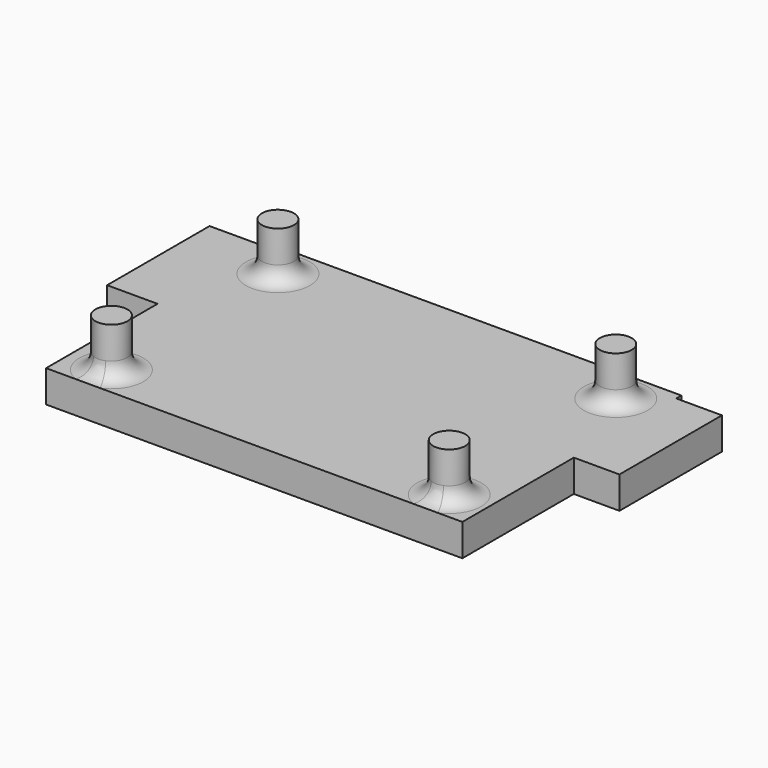
from build123d import *

# Parameters (mm, degrees)
CYLINDER015_R     = 1
CYLINDER015_DEPTH = 3
CYLINDER014_R     = 1
CYLINDER014_DEPTH = 3
CYLINDER013_R     = 1
CYLINDER013_DEPTH = 3
CYLINDER016_R     = 1
CYLINDER016_DEPTH = 3
BOX004_W          = 26
BOX004_H          = 17.1
BOX004_DEPTH      = 2
BOX005_W          = 32
BOX005_H          = 8
BOX005_DEPTH      = 2
FILLET003_R       = 1


with BuildPart() as cilindro015:
    # Cylinder015 → Cylinder015 (new body)
    with BuildSketch(Plane(origin=(89.75, 253.65, 4), x_dir=(1, 0, 0), z_dir=(0, 0, 1))):
        Circle(CYLINDER015_R)
    extrude(amount=CYLINDER015_DEPTH)


with BuildPart() as cilindro014:
    # Cylinder014 → Cylinder014 (new body)
    with BuildSketch(Plane(origin=(89.75, 240.65, 4), x_dir=(1, 0, 0), z_dir=(0, 0, 1))):
        Circle(CYLINDER014_R)
    extrude(amount=CYLINDER014_DEPTH)


with BuildPart() as cilindro013:
    # Cylinder013 → Cylinder013 (new body)
    with BuildSketch(Plane(origin=(110.85, 240.65, 4), x_dir=(1, 0, 0), z_dir=(0, 0, 1))):
        Circle(CYLINDER013_R)
    extrude(amount=CYLINDER013_DEPTH)


with BuildPart() as fusion011:
    # Cylinder016 → Cylinder016 (new body)
    with BuildSketch(Plane(origin=(110.85, 253.65, 4), x_dir=(1, 0, 0), z_dir=(0, 0, 1))):
        Circle(CYLINDER016_R)
    extrude(amount=CYLINDER016_DEPTH)

    # Fusion011: union Cilindro015, Cilindro014, Cilindro013
    add(cilindro015.part)
    add(cilindro014.part)
    add(cilindro013.part)


with BuildPart() as fusion011_1:
    # Fusion011 placement: moved
    add(fusion011.part.moved(Location((0, 0, -4))))


with BuildPart() as cubo004:
    # Box004 → Box004 (new body)
    with BuildSketch(Plane(origin=(87.15, 238.8, -2), x_dir=(1, 0, 0), z_dir=(0, 0, 1))):
        with Locations((13, 8.55)):
            Rectangle(BOX004_W, BOX004_H)
    extrude(amount=BOX004_DEPTH)


with BuildPart() as tapa:
    # Box005 → Box005 (new body)
    with BuildSketch(Plane(origin=(84, 247.5, -2), x_dir=(1, 0, 0), z_dir=(0, 0, 1))):
        with Locations((16, 4)):
            Rectangle(BOX005_W, BOX005_H)
    extrude(amount=BOX005_DEPTH)

    # Fusion016: union Cubo004
    add(cubo004.part)

    # Fusion017: union Fusion011
    add(fusion011_1.part)


with BuildPart() as tapa_1:
    # Fusion017 placement: moved
    add(tapa.part.moved(Location((0, 0, -26))))

    # Fillet003
    fillet003_edges = [tapa_1.edges().sort_by_distance(p)[0] for p in [
        (109.85, 253.65, -26),
        (109.85, 240.65, -26),
        (88.75, 240.65, -26),
        (88.75, 253.65, -26),
    ]]
    fillet(fillet003_edges, radius=FILLET003_R)


solid = tapa_1.part
